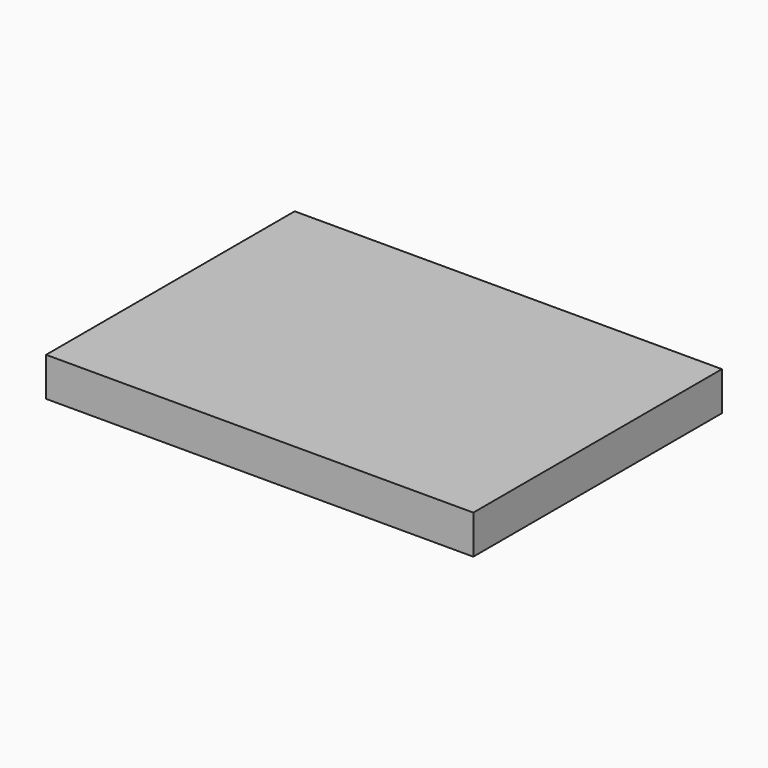
from build123d import *

# Parameters (mm, degrees)
SKETCH_W  = 110
SKETCH_H  = 80
PAD_DEPTH = 10


with BuildPart() as part:
    # Sketch → Pad (new body)
    with BuildSketch(Plane.XY):
        with Locations((-55, 40)):
            Rectangle(SKETCH_W, SKETCH_H)
    extrude(amount=PAD_DEPTH)


solid = part.part
